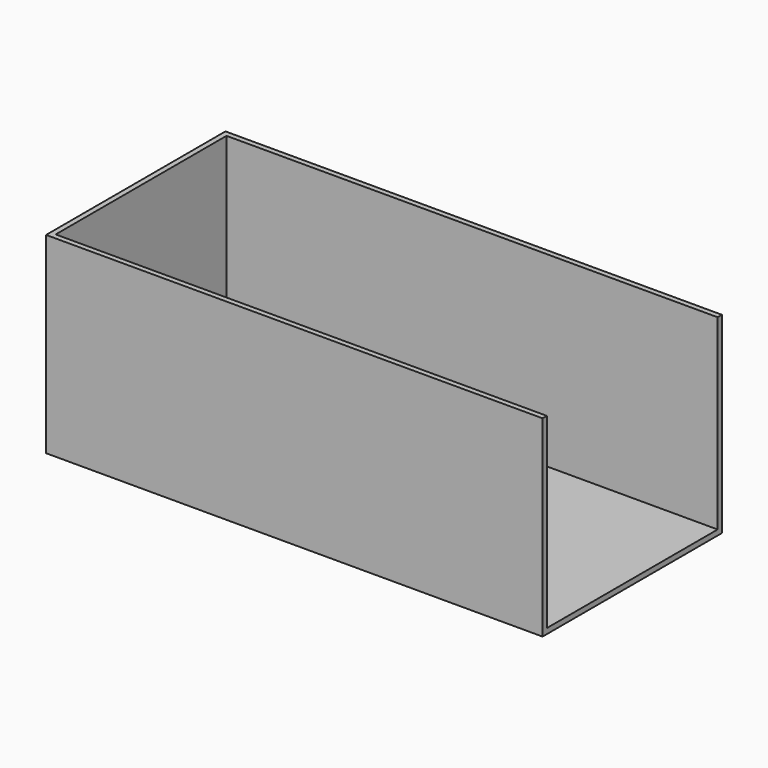
from build123d import *

# Parameters (mm, degrees)
F1_DEPTH = 914.4
F0_W     = 2336.8
F0_H     = 1016
F2_DEPTH = 25.4


with BuildPart() as f1:
    # F0 (on Top) → F1 (new body)
    with BuildSketch(Plane.XY):
        Polygon((-1168.4, 508), (1168.4, 508), (1168.4, 533.4), (-1193.8, 533.4), (-1193.8, -533.4), (1168.4, -533.4), (1168.4, -508), (-1168.4, -508), align=None)
    extrude(amount=F1_DEPTH)

    # F0 (on Top) → F2 (join)
    with BuildSketch(Plane.XY):
        Rectangle(F0_W, F0_H)
    extrude(amount=F2_DEPTH)


solid = f1.part
